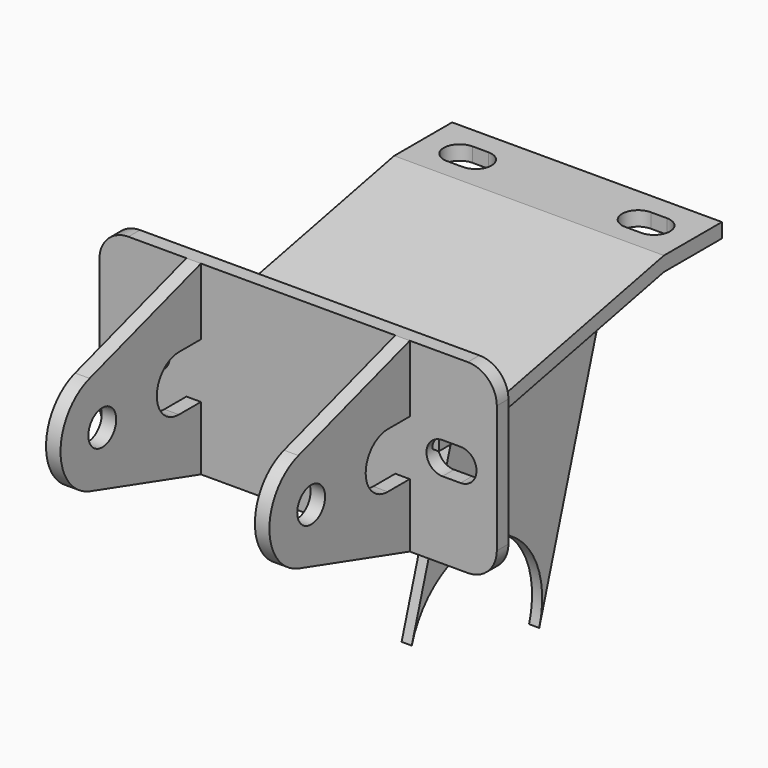
from build123d import *

# Parameters (mm, degrees)
F1_DEPTH  = 2.5
F3_R      = 6
F4_DEPTH  = 5
F7_DEPTH  = 46.5
F9_DEPTH  = 25
F11_DEPTH = 1.75


with BuildPart() as f1:
    # F0 (on Front) → F1 (new body, symmetric)
    with BuildSketch(Plane.XZ):
        with BuildLine():
            ThreePointArc((68.5, 22), (65.571068, 29.071068), (58.5, 32))
            Line((58.5, 32), (-58.5, 32))
            ThreePointArc((-58.5, 32), (-65.571068, 29.071068), (-68.5, 22))
            Line((-68.5, 22), (-68.5, -22))
            ThreePointArc((-68.5, -22), (-65.571068, -29.071068), (-58.5, -32))
            Line((-58.5, -32), (58.5, -32))
            ThreePointArc((58.5, -32), (65.571068, -29.071068), (68.5, -22))
            Line((68.5, -22), (68.5, 22))
        make_face()
        with BuildLine():
            Line((-55.999996, 5.5), (-49.749996, 5.5))
            ThreePointArc((-49.749996, 5.5), (-44.249996, 0), (-49.749996, -5.5))
            Line((-49.749996, -5.5), (-56, -5.5))
            ThreePointArc((-56, -5.5), (-61.5, 2e-06), (-55.999996, 5.5))
        make_face(mode=Mode.SUBTRACT)
        with BuildLine():
            Line((56, -5.5), (49.749996, -5.5))
            ThreePointArc((49.749996, -5.5), (44.249996, 0), (49.749996, 5.5))
            Line((49.749996, 5.5), (55.999996, 5.5))
            ThreePointArc((55.999996, 5.5), (61.5, 2e-06), (56, -5.5))
        make_face(mode=Mode.SUBTRACT)
    extrude(amount=F1_DEPTH, both=True)

    # F3 (on offset) → F4 (join)
    with BuildSketch(Plane(origin=(-38.5, 0, 0), x_dir=(0, -1, 0), z_dir=(-1, 0, 0))):
        with BuildLine():
            Line((50.486241, 16.643546), (2.5, 32))
            Line((2.5, 32), (2.5, 9))
            Line((2.5, 9), (12, 9))
            ThreePointArc((12, 9), (21.5, -0.5), (12, -10))
            Line((12, -10), (2.5, -10))
            Line((2.5, -10), (2.5, -32))
            Line((2.5, -32), (50.158136, -17.745105))
            ThreePointArc((50.158136, -17.745105), (62.999181, -0.671731), (50.486241, 16.643546))
        make_face()
        with Locations((45, -0.5)):
            Circle(F3_R, mode=Mode.SUBTRACT)
    extrude(amount=-F4_DEPTH)

    # F5: F1 across plane


with BuildPart() as f1_1:
    add(f1.part)
    add(f1.part.mirror(Plane.YZ))


with BuildPart() as f7:
    # F6 (on Right) → F7 (new body, symmetric)
    with BuildSketch(Plane.YZ):
        Polygon((0, 5), (0, 0), (25, 0), (97, 15), (122, 15), (122, 20), (97, 20), (25, 5), align=None)
    extrude(amount=F7_DEPTH, both=True)

    # F8 (on face) → F9 (cut)
    with BuildSketch(Plane(origin=(0, 0, 0), x_dir=(1, 0, 0), z_dir=(0, 0, -1))):
        with BuildLine():
            ThreePointArc((28, -103.5), (22.5, -109), (28, -114.5))
            Line((28, -114.5), (33.5, -114.5))
            ThreePointArc((33.5, -114.5), (39, -109), (33.5, -103.5))
            Line((33.5, -103.5), (28, -103.5))
        make_face()
        with BuildLine():
            ThreePointArc((-28, -114.5), (-22.5, -109), (-28, -103.5))
            Line((-28, -103.5), (-33.5, -103.5))
            ThreePointArc((-33.5, -103.5), (-39, -109), (-33.5, -114.5))
            Line((-33.5, -114.5), (-28, -114.5))
        make_face()
        with BuildLine():
            ThreePointArc((28, -7.5), (22.5, -13), (28, -18.5))
            Line((28, -18.5), (33.5, -18.5))
            ThreePointArc((33.5, -18.5), (39, -13), (33.5, -7.5))
            Line((33.5, -7.5), (28, -7.5))
        make_face()
        with BuildLine():
            ThreePointArc((-28, -18.5), (-22.5, -13), (-28, -7.5))
            Line((-28, -7.5), (-33.5, -7.5))
            ThreePointArc((-33.5, -7.5), (-39, -13), (-33.5, -18.5))
            Line((-33.5, -18.5), (-28, -18.5))
        make_face()
    extrude(amount=-F9_DEPTH, mode=Mode.SUBTRACT)


with BuildPart() as f11:
    # F10 (on Right) → F11 (new body, symmetric)
    with BuildSketch(Plane.YZ):
        with BuildLine():
            Line((92.805771, 17.211208), (28.491435, 3.812388))
            Line((28.491435, 3.812388), (6.778453, -66.519165))
            ThreePointArc((6.778453, -66.519165), (42.729962, -47.529326), (61.719801, -83.480835))
            Line((61.719801, -83.480835), (92.805771, 17.211208))
        make_face()
    extrude(amount=F11_DEPTH, both=True)


with BuildPart() as f11_1:
    # F12: moved
    add(f11.part.moved(Location((30, 0, 0))))


solid = Compound([f1_1.part, f7.part, f11_1.part])
